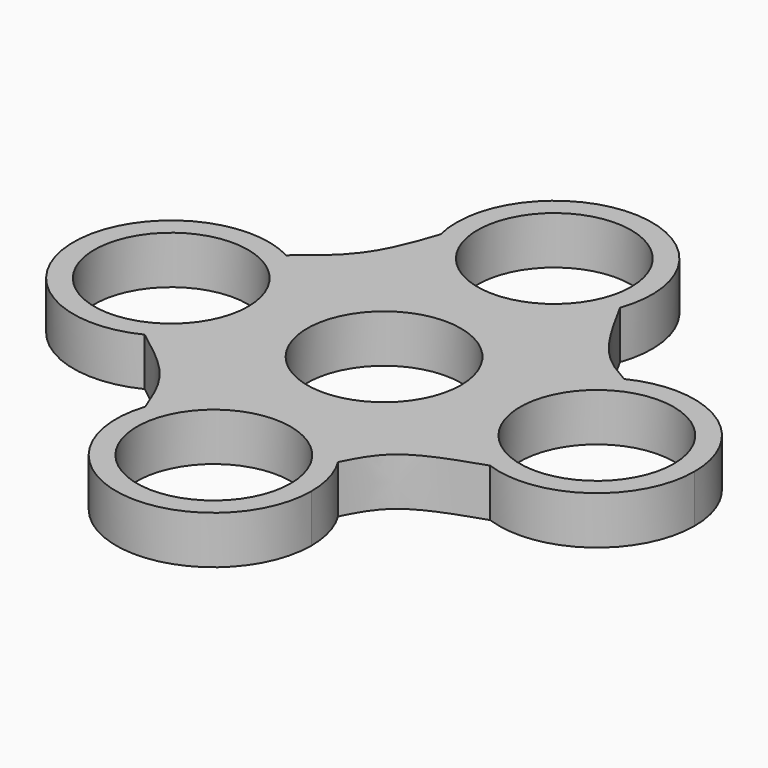
from build123d import *

# Parameters (mm, degrees)
F0_R     = 11.2395
F0_R_2   = 14.2875
F1_DEPTH = 7.0104


with BuildPart() as f1:
    # F0 (on Top) → F1 (new body)
    with BuildSketch(Plane.XY):
        with BuildLine():
            ThreePointArc((13.4525990485, 26.3024918088), (14.0772274464, 28.6728035148), (14.2875, 31.115))
            ThreePointArc((14.2875, 31.115), (-1.7346553006, 45.2968062051), (-13.8662885898, 27.671354113))
            ThreePointArc((-13.8662885898, 27.671354113), (-0.7150040287, 16.8454020558), (13.4525990485, 26.3024918088))
        make_face()
        with Locations((0, 31.115)):
            Circle(F0_R, mode=Mode.SUBTRACT)
        with BuildLine():
            ThreePointArc((13.4525990485, 26.3024918088), (-0.7150040287, 16.8454020558), (-13.8662885898, 27.671354113))
            add(Edge.make_bspline(
                [(-24.4061804215, 12.6144518752), (-21.9913994973, 14.5041688782), (-17.0885675606, 18.3373527024), (-14.9464390158, 24.5260180625), (-13.8662885898, 27.671354113)],
                knots=[0, 0, 0, 0, 0.4915814919, 1, 1, 1, 1], degree=3))
            ThreePointArc((-24.4061804215, 12.6144518752), (-18.8678591913, 7.3580023281), (-16.8275, 0))
            ThreePointArc((-16.8275, 0), (-18.9714472574, -7.5277342565), (-24.7598580804, -12.7962817815))
            add(Edge.make_bspline(
                [(-13.5767012622, -26.6646248375), (-14.5172045092, -24.2202030887), (-16.5099618567, -18.9996397954), (-21.8951772511, -14.9544801118), (-24.7598580804, -12.7962817815)],
                knots=[0, 0, 0, 0, 0.4681048972, 1, 1, 1, 1], degree=3))
            ThreePointArc((-13.5767012622, -26.6646248375), (-1.6877674817, -16.9275373242), (12.153715971, -23.603685578))
            add(Edge.make_bspline(
                [(12.153715971, -23.603685578), (13.1791276293, -21.6005172118), (15.5035107886, -17.041248492), (22.4044373956, -14.7375703735), (26.2768499578, -13.4433983955)],
                knots=[0, 0, 0, 0, 0.4388325772, 1, 1, 1, 1], degree=3))
            ThreePointArc((26.2768499578, -13.4433983955), (16.8493354945, -0.7896027276), (24.8227682855, 12.8273331718))
            add(Edge.make_bspline(
                [(24.8227682855, 12.8273331718), (23.0782675117, 13.8105061997), (18.9682195214, 16.1413950671), (15.4644450361, 22.5920127072), (13.4525990485, 26.3024918088)],
                knots=[0, 0, 0, 0, 0.4249066448, 1, 1, 1, 1], degree=3))
        make_face()
        Circle(F0_R_2, mode=Mode.SUBTRACT)
        with BuildLine():
            ThreePointArc((-16.8275, 0), (-18.8678591913, 7.3580023281), (-24.4061804215, 12.6144518752))
            ThreePointArc((-24.4061804215, 12.6144518752), (-45.4011162934, 0.198840389), (-24.7598580804, -12.7962817815))
            ThreePointArc((-24.7598580804, -12.7962817815), (-18.9714472574, -7.5277342565), (-16.8275, 0))
        make_face()
        with Locations((-31.115, 0)):
            Circle(F0_R, mode=Mode.SUBTRACT)
        with BuildLine():
            ThreePointArc((45.4025, 0), (38.6725259056, 12.1250343684), (24.8227682855, 12.8273331718))
            ThreePointArc((24.8227682855, 12.8273331718), (16.8493354945, -0.7896027276), (26.2768499578, -13.4433983955))
            ThreePointArc((26.2768499578, -13.4433983955), (39.3310692403, -11.68883495), (45.4025, 0))
        make_face()
        with Locations((31.115, 0)):
            Circle(F0_R, mode=Mode.SUBTRACT)
        with BuildLine():
            ThreePointArc((12.153715971, -23.603685578), (-1.6877674817, -16.9275373242), (-13.5767012622, -26.6646248375))
            ThreePointArc((-13.5767012622, -26.6646248375), (-2.2533904418, -45.2236812908), (14.2875, -31.115))
            ThreePointArc((14.2875, -31.115), (13.7437053444, -27.2107433925), (12.153715971, -23.603685578))
        make_face()
        with Locations((0, -31.115)):
            Circle(F0_R, mode=Mode.SUBTRACT)
        Circle(F0_R_2)
        Circle(F0_R, mode=Mode.SUBTRACT)
    extrude(amount=F1_DEPTH)


solid = f1.part
